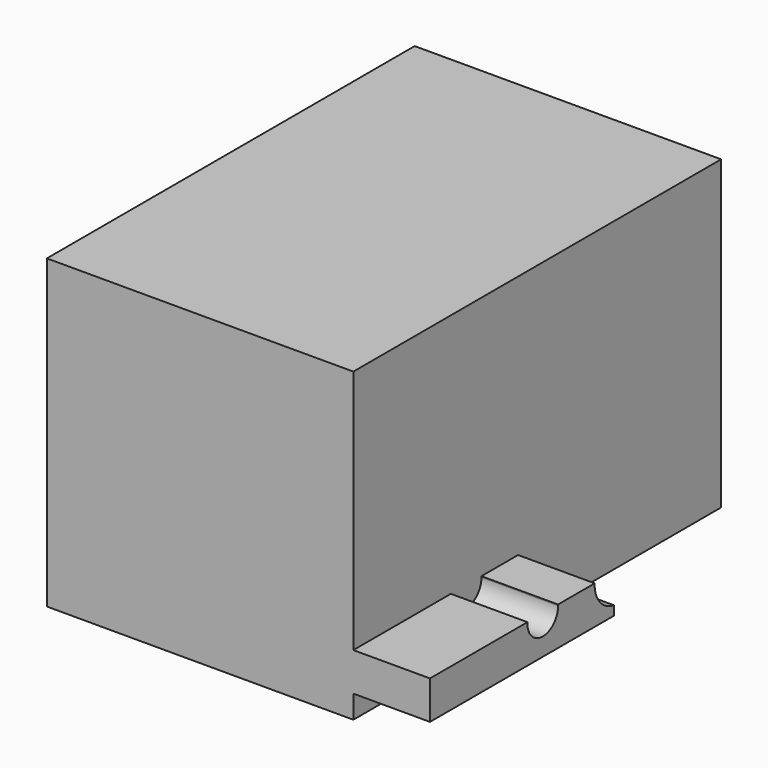
from build123d import *

# Parameters (mm, degrees)
F0_W     = 101.6
F0_H     = 152.4
F1_DEPTH = 101.6
F3_DEPTH = 25.4


with BuildPart() as f1:
    # F0 (on Top) → F1 (new body)
    with BuildSketch(Plane.XY):
        with Locations((8.84515, -1.325865)):
            Rectangle(F0_W, F0_H)
    extrude(amount=F1_DEPTH)

    # F2 (on face) → F3 (join)
    with BuildSketch(Plane.YZ.offset(59.64515)):
        with BuildLine():
            ThreePointArc((-24.462526, 20.326543), (-24.452019, 20.115864), (-24.448515, 19.904952))
            ThreePointArc((-24.448515, 19.904952), (-31.009427, 13.558456), (-37.134505, 20.326543))
            Line((-37.134505, 20.326543), (-77.525865, 20.326543))
            Line((-77.525865, 20.326543), (-77.525865, 7.626543))
            Line((-77.525865, 7.626543), (-1.325865, 7.626543))
            Line((-1.325865, 7.626543), (-1.325865, 10.712898))
            ThreePointArc((-1.325865, 10.712898), (-7.156393, 13.985677), (-9.27761, 20.326543))
            Line((-9.27761, 20.326543), (-24.462526, 20.326543))
        make_face()
    extrude(amount=F3_DEPTH)


solid = f1.part
